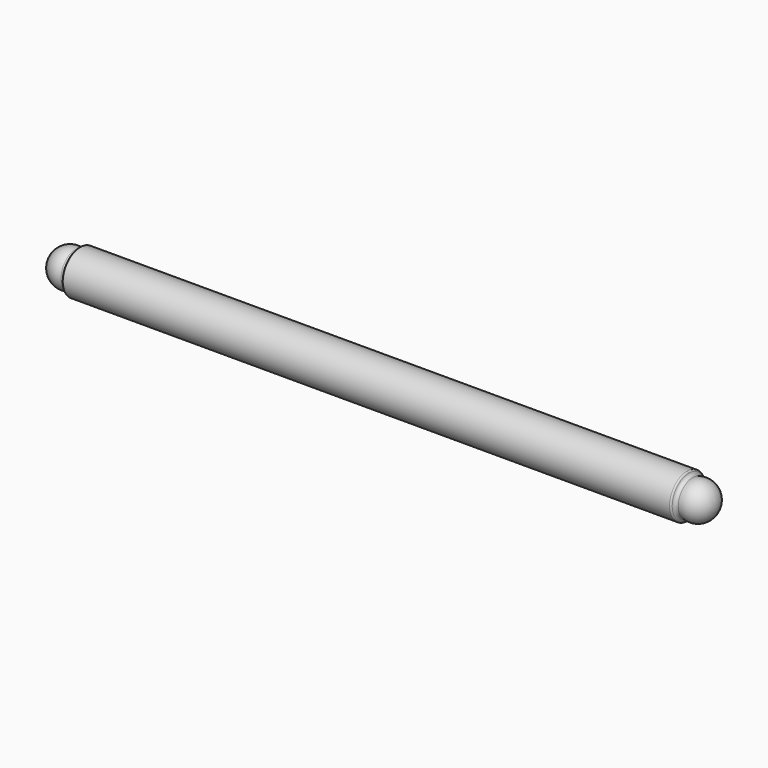
from build123d import *

# Parameters (mm, degrees)
CYLINDER041_R           = 14
CYLINDER041_DEPTH       = 390
CYLINDER041_PITCH_ANGLE = 90
FILLET_R                = 2
FILLET001_R             = 1


with BuildPart() as esfera003:
    # Sphere007 → Sphere007 (revolve)
    with BuildSketch(Plane(origin=(406, 0, 0), x_dir=(1, 0, 0), z_dir=(0, -1, 0))):
        with BuildLine():
            ThreePointArc((0, -12), (12, 0), (0, 12))
            Line((0, 12), (0, -12))
        make_face()
    revolve(axis=Axis((406, 0, 0), (0, 0, 1)))


with BuildPart() as obj1:
    # Cylinder041 → Cylinder041 (new body)
    with BuildSketch(Plane.XY):
        Circle(CYLINDER041_R)
    extrude(amount=CYLINDER041_DEPTH)


with BuildPart() as obj1_1:
    # Cylinder041 pitch: moved
    add(obj1.part.rotate(Axis((0, 0, 0), (0, 1, 0)), CYLINDER041_PITCH_ANGLE))


with BuildPart() as obj1_2:
    # Cylinder041 placement: moved
    add(obj1_1.part.moved(Location((10, 0, 0))))


with BuildPart() as fillet001:
    # Sphere006 → Sphere006 (revolve)
    with BuildSketch(Plane(origin=(4, 0, 0), x_dir=(1, 0, 0), z_dir=(0, -1, 0))):
        with BuildLine():
            ThreePointArc((0, -12), (12, 0), (0, 12))
            Line((0, 12), (0, -12))
        make_face()
    revolve(axis=Axis((4, 0, 0), (0, 0, 1)))

    # Fusion019: union obj1
    add(obj1_2.part)

    # Fusion020: union Esfera003
    add(esfera003.part)


with BuildPart() as fillet001_1:
    # Fusion020 placement: moved
    add(fillet001.part.moved(Location((-450, 459, 261))))

    # Fillet
    fillet_edges = [fillet001_1.edges().sort_by_distance(p)[0] for p in [
        (-50, 459, 250.607695),
        (-440, 448.607695, 261),
        (-440, 469.392305, 261),
    ]]
    fillet(fillet_edges, radius=FILLET_R)

    # Fillet001
    fillet001_edges = [fillet001_1.edges().sort_by_distance(p)[0] for p in [
        (-50, 459, 275),
        (-440, 459, 275),
    ]]
    fillet(fillet001_edges, radius=FILLET001_R)


solid = fillet001_1.part
